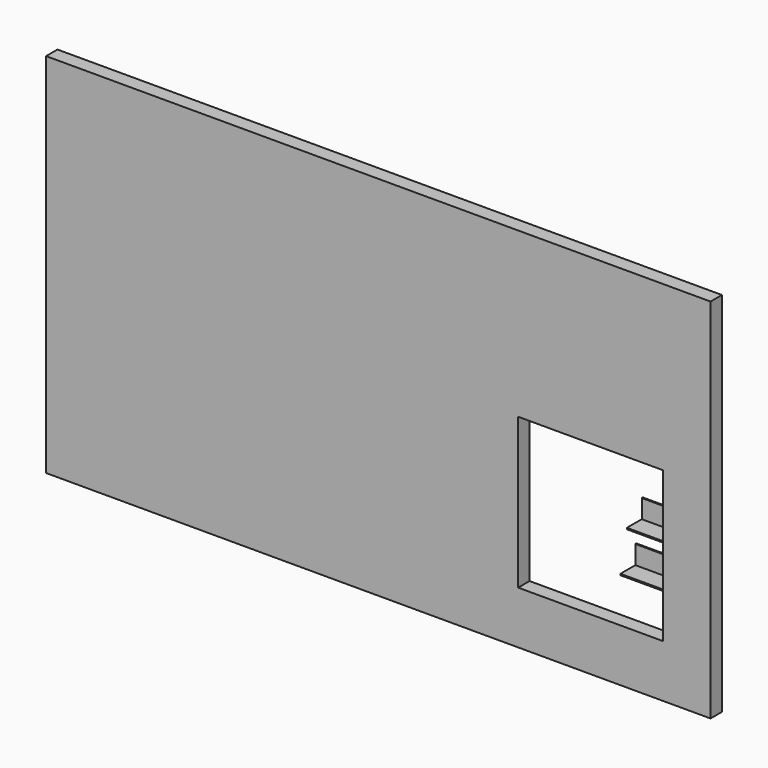
from build123d import *

# Parameters (mm, degrees)
F2_W      = 53.0254556797
F2_H      = 23.55
F3_DEPTH  = 1.7
F2_H_2    = 1.7
F4_DEPTH  = 25.25
F5_W      = 840.4729366302
F5_H      = 464.2916843295
F5_W_2    = 183.3056384325
F5_H_2    = 190.2654580772
F6_DEPTH  = 18
F8_W      = 25.25
F8_H      = 1.7
F8_W_2    = 1.7
F8_H_2    = 25.25
F9_DEPTH  = 25.25
F8_H_3    = 23.55
F10_DEPTH = 1.7


with BuildPart() as f3:
    # F2 (on Top) → F3 (new body)
    with BuildSketch(Plane.XY):
        with Locations((-33.5639894474, 28.6992099345)):
            Rectangle(F2_W, F2_H)
    extrude(amount=F3_DEPTH)

    # F2 (on Top) → F4 (join)
    with BuildSketch(Plane.XY):
        with Locations((-33.5639894474, 41.3242099345)):
            Rectangle(F2_W, F2_H_2)
    extrude(amount=F4_DEPTH)


with BuildPart() as f6:
    # F5 (on Front) → F6 (new body)
    with BuildSketch(Plane.XZ):
        with Locations((-338.3664786816, 133.0243237317)):
            Rectangle(F5_W, F5_H)
        with Locations((-69.7828295827, 62.6240614802)):
            Rectangle(F5_W_2, F5_H_2, mode=Mode.SUBTRACT)
    extrude(amount=F6_DEPTH)


with BuildPart() as f9:
    # F8 (on offset) → F9 (new body)
    with BuildSketch(Plane.XY.offset(75)):
        with Locations((-13.8877278399, 9.59)):
            Rectangle(F8_W, F8_H)
        with Locations((-0.4127278399, 9.59)):
            Rectangle(F8_W_2, F8_H)
        with Locations((-0.4127278399, 23.065)):
            Rectangle(F8_W_2, F8_H_2)
    extrude(amount=F9_DEPTH)

    # F8 (on offset) → F10 (join)
    with BuildSketch(Plane.XY.offset(75)):
        with Locations((-13.8877278399, -3.035)):
            Rectangle(F8_W, F8_H_3)
        with Locations((-0.4127278399, -3.035)):
            Rectangle(F8_W_2, F8_H_3)
        Polygon((0.4372721601, 35.69), (0.4372721601, 10.44), (0.4372721601, 8.74), (0.4372721601, -14.81), (23.9872721601, -14.81), (23.9872721601, 35.69), align=None)
    extrude(amount=F10_DEPTH)


solid = Compound([f3.part, f6.part, f9.part])
